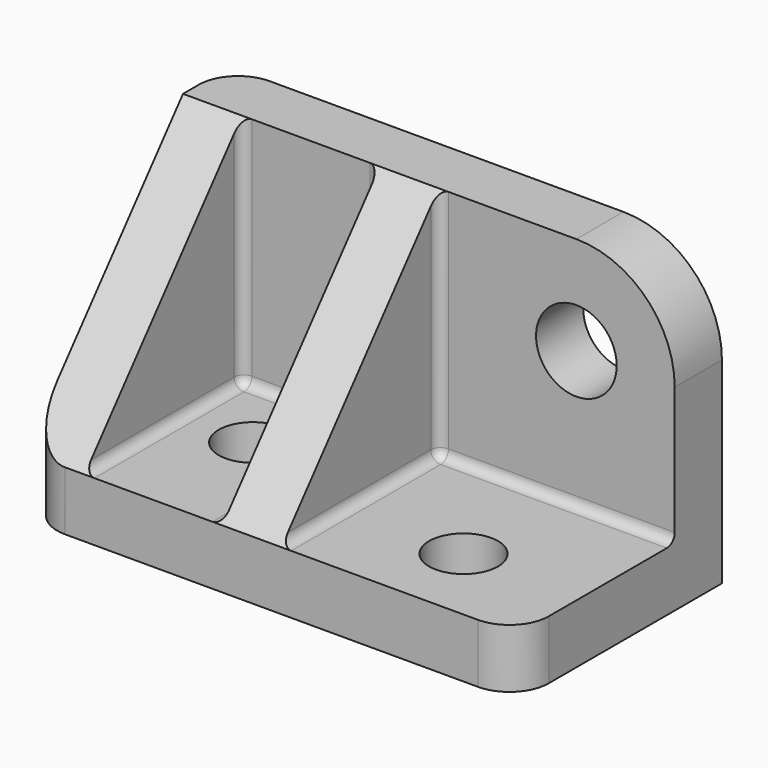
from build123d import *

# Parameters (mm, degrees)
F0_W     = 3
F0_H     = 10
F1_DEPTH = 15
F0_W_2   = 12
F0_R     = 1.75
F0_W_3   = 7
F2_DEPTH = 3
F3_R     = 2.05
F4_DEPTH = 3
F6_DEPTH = 25.001
F7_R     = 2
F8_R     = 0.5


with BuildPart() as f1:
    # F0 (on Top) → F1 (new body)
    with BuildSketch(Plane.XY):
        Polygon((-43.3751196787, 21.2396075964), (-68.3751196787, 21.2396075964), (-68.3751196787, 18.2396075964), (-65.3751196787, 18.2396075964), (-58.3751196787, 18.2396075964), (-55.3751196787, 18.2396075964), (-43.3751196787, 18.2396075964), align=None)
        with Locations((-66.8751196787, 13.2396075964)):
            Rectangle(F0_W, F0_H)
        with Locations((-56.8751196787, 13.2396075964)):
            Rectangle(F0_W, F0_H)
    extrude(amount=F1_DEPTH)

    # F0 (on Top) → F2 (join)
    with BuildSketch(Plane.XY):
        Polygon((-43.3751196787, 21.2396075964), (-68.3751196787, 21.2396075964), (-68.3751196787, 18.2396075964), (-65.3751196787, 18.2396075964), (-58.3751196787, 18.2396075964), (-55.3751196787, 18.2396075964), (-43.3751196787, 18.2396075964), align=None)
        with Locations((-66.8751196787, 13.2396075964)):
            Rectangle(F0_W, F0_H)
        with Locations((-49.3751196787, 13.2396075964)):
            Rectangle(F0_W_2, F0_H)
        with Locations((-49.3751196787, 12.3196075964)):
            Circle(F0_R, mode=Mode.SUBTRACT)
        with Locations((-61.8751196787, 13.2396075964)):
            Rectangle(F0_W_3, F0_H)
        with Locations((-61.8751196787, 14.5696075964)):
            Circle(F0_R, mode=Mode.SUBTRACT)
        with Locations((-56.8751196787, 13.2396075964)):
            Rectangle(F0_W, F0_H)
    extrude(amount=F2_DEPTH)

    # F3 (on face) → F4 (cut)
    with BuildSketch(Plane.XZ.offset(-18.2396075964)):
        with BuildLine():
            ThreePointArc((-48.3751196787, 15), (-44.8395857727, 13.5355339059), (-43.3751196787, 10))
            Line((-43.3751196787, 10), (-43.3751196787, 15))
            Line((-43.3751196787, 15), (-48.3751196787, 15))
        make_face()
        with Locations((-48.3751196787, 10)):
            Circle(F3_R)
    extrude(amount=-F4_DEPTH, mode=Mode.SUBTRACT)

    # F5 (on face) → F6 (cut, through all)
    with BuildSketch(Plane(origin=(-68.3751196787, 0, 0), x_dir=(0, -1, 0), z_dir=(-1, 0, 0))):
        Polygon((-8.2396075964, 15), (-18.2396075964, 15), (-8.2396075964, 3), align=None)
    extrude(amount=-F6_DEPTH, mode=Mode.SUBTRACT)

    # F7
    f7_edges = [f1.edges().sort_by_distance(p)[0] for p in [
        (-68.37512, 8.239608, 1.5),
        (-43.37512, 8.239608, 1.5),
        (-68.37512, 21.239608, 7.5),
    ]]
    fillet(f7_edges, radius=F7_R)

    # F8
    f8_edges = [f1.edges().sort_by_distance(p)[0] for p in [
        (-55.37512, 13.239608, 3),
        (-49.37512, 18.239608, 3),
        (-55.37512, 18.239608, 9),
        (-65.37512, 13.239608, 3),
        (-61.87512, 18.239608, 3),
        (-65.37512, 18.239608, 9),
        (-58.37512, 18.239608, 9),
        (-58.37512, 13.239608, 3),
    ]]
    fillet(f8_edges, radius=F8_R)


solid = f1.part
